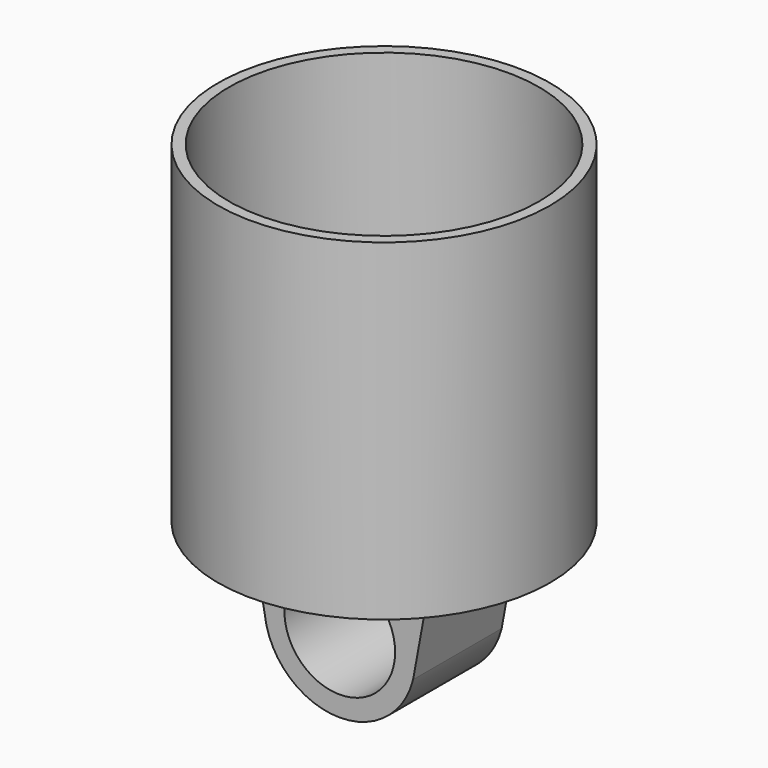
from build123d import *

# Parameters (mm, degrees)
F0_R     = 15
F1_DEPTH = 30
F2_R     = 14
F3_DEPTH = 28
F4_R     = 5
F5_DEPTH = 5


with BuildPart() as f1:
    # F0 (on Top) → F1 (new body)
    with BuildSketch(Plane.XY):
        Circle(F0_R)
    extrude(amount=F1_DEPTH)

    # F2 (on face) → F3 (cut)
    with BuildSketch(Plane.XY.offset(30)):
        Circle(F2_R)
    extrude(amount=-F3_DEPTH, mode=Mode.SUBTRACT)


with BuildPart() as f5:
    # F4 (on Front) → F5 (new body, symmetric)
    with BuildSketch(Plane.XZ):
        with BuildLine():
            Line((-8.164535112, 0), (-6.6240113229, -8.391850628))
            ThreePointArc((-6.6240113229, -8.391850628), (0, -13.5675125447), (6.6240113229, -8.391850628))
            Line((6.6240113229, -8.391850628), (8.164535112, 0))
            Line((8.164535112, 0), (-8.164535112, 0))
        make_face()
        with Locations((0, -6.7408492677)):
            Circle(F4_R, mode=Mode.SUBTRACT)
    extrude(amount=F5_DEPTH, both=True)


solid = Compound([f1.part, f5.part])
